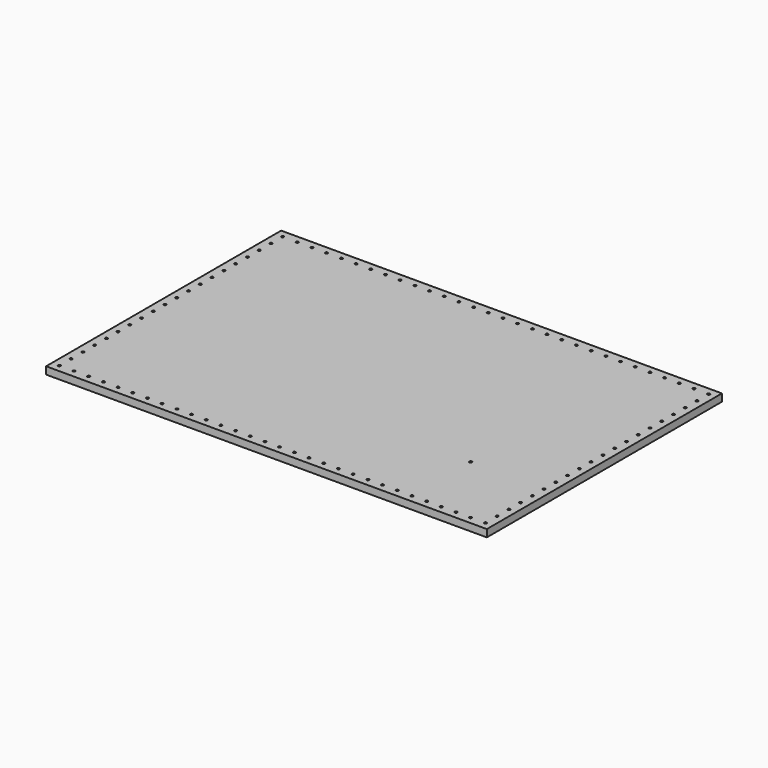
from build123d import *

# Parameters (mm, degrees)
F0_W     = 762
F0_H     = 508
F0_R     = 2.1844
F1_DEPTH = 12.7


with BuildPart() as f1:
    # F0 (on Top) → F1 (new body)
    with BuildSketch(Plane.XY):
        with Locations((381, -254)):
            Rectangle(F0_W, F0_H)
        with Locations((12.7, -495.3)):
            Circle(F0_R, mode=Mode.SUBTRACT)
        with Locations((38.1, -495.3)):
            Circle(F0_R, mode=Mode.SUBTRACT)
        with Locations((63.5, -495.3)):
            Circle(F0_R, mode=Mode.SUBTRACT)
        with Locations((88.9, -495.3)):
            Circle(F0_R, mode=Mode.SUBTRACT)
        with Locations((12.7, -469.9)):
            Circle(F0_R, mode=Mode.SUBTRACT)
        with Locations((114.3, -495.3)):
            Circle(F0_R, mode=Mode.SUBTRACT)
        with Locations((139.7, -495.3)):
            Circle(F0_R, mode=Mode.SUBTRACT)
        with Locations((165.1, -495.3)):
            Circle(F0_R, mode=Mode.SUBTRACT)
        with Locations((12.7, -444.5)):
            Circle(F0_R, mode=Mode.SUBTRACT)
        with Locations((12.7, -419.1)):
            Circle(F0_R, mode=Mode.SUBTRACT)
        with Locations((12.7, -393.7)):
            Circle(F0_R, mode=Mode.SUBTRACT)
        with Locations((190.5, -495.3)):
            Circle(F0_R, mode=Mode.SUBTRACT)
        with Locations((215.9, -495.3)):
            Circle(F0_R, mode=Mode.SUBTRACT)
        with Locations((241.3, -495.3)):
            Circle(F0_R, mode=Mode.SUBTRACT)
        with Locations((266.7, -495.3)):
            Circle(F0_R, mode=Mode.SUBTRACT)
        with Locations((292.1, -495.3)):
            Circle(F0_R, mode=Mode.SUBTRACT)
        with Locations((317.5, -495.3)):
            Circle(F0_R, mode=Mode.SUBTRACT)
        with Locations((342.9, -495.3)):
            Circle(F0_R, mode=Mode.SUBTRACT)
        with Locations((368.3, -495.3)):
            Circle(F0_R, mode=Mode.SUBTRACT)
        with Locations((12.7, -368.3)):
            Circle(F0_R, mode=Mode.SUBTRACT)
        with Locations((12.7, -342.9)):
            Circle(F0_R, mode=Mode.SUBTRACT)
        with Locations((12.7, -317.5)):
            Circle(F0_R, mode=Mode.SUBTRACT)
        with Locations((12.7, -292.1)):
            Circle(F0_R, mode=Mode.SUBTRACT)
        with Locations((12.7, -266.7)):
            Circle(F0_R, mode=Mode.SUBTRACT)
        with Locations((393.7, -495.3)):
            Circle(F0_R, mode=Mode.SUBTRACT)
        with Locations((419.1, -495.3)):
            Circle(F0_R, mode=Mode.SUBTRACT)
        with Locations((444.5, -495.3)):
            Circle(F0_R, mode=Mode.SUBTRACT)
        with Locations((469.9, -495.3)):
            Circle(F0_R, mode=Mode.SUBTRACT)
        with Locations((495.3, -495.3)):
            Circle(F0_R, mode=Mode.SUBTRACT)
        with Locations((520.7, -495.3)):
            Circle(F0_R, mode=Mode.SUBTRACT)
        with Locations((546.1, -495.3)):
            Circle(F0_R, mode=Mode.SUBTRACT)
        with Locations((571.5, -495.3)):
            Circle(F0_R, mode=Mode.SUBTRACT)
        with Locations((596.9, -495.3)):
            Circle(F0_R, mode=Mode.SUBTRACT)
        with Locations((622.3, -495.3)):
            Circle(F0_R, mode=Mode.SUBTRACT)
        with Locations((647.7, -495.3)):
            Circle(F0_R, mode=Mode.SUBTRACT)
        with Locations((673.1, -495.3)):
            Circle(F0_R, mode=Mode.SUBTRACT)
        with Locations((698.5, -495.3)):
            Circle(F0_R, mode=Mode.SUBTRACT)
        with Locations((723.9, -495.3)):
            Circle(F0_R, mode=Mode.SUBTRACT)
        with Locations((749.3, -495.3)):
            Circle(F0_R, mode=Mode.SUBTRACT)
        with Locations((749.3, -469.9)):
            Circle(F0_R, mode=Mode.SUBTRACT)
        with Locations((749.3, -444.5)):
            Circle(F0_R, mode=Mode.SUBTRACT)
        with Locations((749.3, -419.1)):
            Circle(F0_R, mode=Mode.SUBTRACT)
        with Locations((749.3, -393.7)):
            Circle(F0_R, mode=Mode.SUBTRACT)
        with Locations((622.3, -368.3)):
            Circle(F0_R, mode=Mode.SUBTRACT)
        with Locations((749.3, -368.3)):
            Circle(F0_R, mode=Mode.SUBTRACT)
        with Locations((749.3, -342.9)):
            Circle(F0_R, mode=Mode.SUBTRACT)
        with Locations((749.3, -317.5)):
            Circle(F0_R, mode=Mode.SUBTRACT)
        with Locations((749.3, -292.1)):
            Circle(F0_R, mode=Mode.SUBTRACT)
        with Locations((749.3, -266.7)):
            Circle(F0_R, mode=Mode.SUBTRACT)
        with Locations((12.7, -241.3)):
            Circle(F0_R, mode=Mode.SUBTRACT)
        with Locations((12.7, -215.9)):
            Circle(F0_R, mode=Mode.SUBTRACT)
        with Locations((12.7, -190.5)):
            Circle(F0_R, mode=Mode.SUBTRACT)
        with Locations((12.7, -165.1)):
            Circle(F0_R, mode=Mode.SUBTRACT)
        with Locations((12.7, -139.7)):
            Circle(F0_R, mode=Mode.SUBTRACT)
        with Locations((12.7, -114.3)):
            Circle(F0_R, mode=Mode.SUBTRACT)
        with Locations((12.7, -88.9)):
            Circle(F0_R, mode=Mode.SUBTRACT)
        with Locations((12.7, -63.5)):
            Circle(F0_R, mode=Mode.SUBTRACT)
        with Locations((12.7, -38.1)):
            Circle(F0_R, mode=Mode.SUBTRACT)
        with Locations((12.7, -12.7)):
            Circle(F0_R, mode=Mode.SUBTRACT)
        with Locations((38.1, -12.7)):
            Circle(F0_R, mode=Mode.SUBTRACT)
        with Locations((63.5, -12.7)):
            Circle(F0_R, mode=Mode.SUBTRACT)
        with Locations((88.9, -12.7)):
            Circle(F0_R, mode=Mode.SUBTRACT)
        with Locations((114.3, -12.7)):
            Circle(F0_R, mode=Mode.SUBTRACT)
        with Locations((139.7, -12.7)):
            Circle(F0_R, mode=Mode.SUBTRACT)
        with Locations((165.1, -12.7)):
            Circle(F0_R, mode=Mode.SUBTRACT)
        with Locations((190.5, -12.7)):
            Circle(F0_R, mode=Mode.SUBTRACT)
        with Locations((215.9, -12.7)):
            Circle(F0_R, mode=Mode.SUBTRACT)
        with Locations((241.3, -12.7)):
            Circle(F0_R, mode=Mode.SUBTRACT)
        with Locations((266.7, -12.7)):
            Circle(F0_R, mode=Mode.SUBTRACT)
        with Locations((292.1, -12.7)):
            Circle(F0_R, mode=Mode.SUBTRACT)
        with Locations((317.5, -12.7)):
            Circle(F0_R, mode=Mode.SUBTRACT)
        with Locations((342.9, -12.7)):
            Circle(F0_R, mode=Mode.SUBTRACT)
        with Locations((368.3, -12.7)):
            Circle(F0_R, mode=Mode.SUBTRACT)
        with Locations((749.3, -241.3)):
            Circle(F0_R, mode=Mode.SUBTRACT)
        with Locations((749.3, -215.9)):
            Circle(F0_R, mode=Mode.SUBTRACT)
        with Locations((749.3, -190.5)):
            Circle(F0_R, mode=Mode.SUBTRACT)
        with Locations((749.3, -165.1)):
            Circle(F0_R, mode=Mode.SUBTRACT)
        with Locations((749.3, -139.7)):
            Circle(F0_R, mode=Mode.SUBTRACT)
        with Locations((393.7, -12.7)):
            Circle(F0_R, mode=Mode.SUBTRACT)
        with Locations((419.1, -12.7)):
            Circle(F0_R, mode=Mode.SUBTRACT)
        with Locations((444.5, -12.7)):
            Circle(F0_R, mode=Mode.SUBTRACT)
        with Locations((469.9, -12.7)):
            Circle(F0_R, mode=Mode.SUBTRACT)
        with Locations((495.3, -12.7)):
            Circle(F0_R, mode=Mode.SUBTRACT)
        with Locations((520.7, -12.7)):
            Circle(F0_R, mode=Mode.SUBTRACT)
        with Locations((546.1, -12.7)):
            Circle(F0_R, mode=Mode.SUBTRACT)
        with Locations((749.3, -114.3)):
            Circle(F0_R, mode=Mode.SUBTRACT)
        with Locations((749.3, -88.9)):
            Circle(F0_R, mode=Mode.SUBTRACT)
        with Locations((571.5, -12.7)):
            Circle(F0_R, mode=Mode.SUBTRACT)
        with Locations((596.9, -12.7)):
            Circle(F0_R, mode=Mode.SUBTRACT)
        with Locations((622.3, -12.7)):
            Circle(F0_R, mode=Mode.SUBTRACT)
        with Locations((647.7, -12.7)):
            Circle(F0_R, mode=Mode.SUBTRACT)
        with Locations((749.3, -63.5)):
            Circle(F0_R, mode=Mode.SUBTRACT)
        with Locations((749.3, -38.1)):
            Circle(F0_R, mode=Mode.SUBTRACT)
        with Locations((673.1, -12.7)):
            Circle(F0_R, mode=Mode.SUBTRACT)
        with Locations((698.5, -12.7)):
            Circle(F0_R, mode=Mode.SUBTRACT)
        with Locations((723.9, -12.7)):
            Circle(F0_R, mode=Mode.SUBTRACT)
        with Locations((749.3, -12.7)):
            Circle(F0_R, mode=Mode.SUBTRACT)
    extrude(amount=F1_DEPTH)


solid = f1.part
